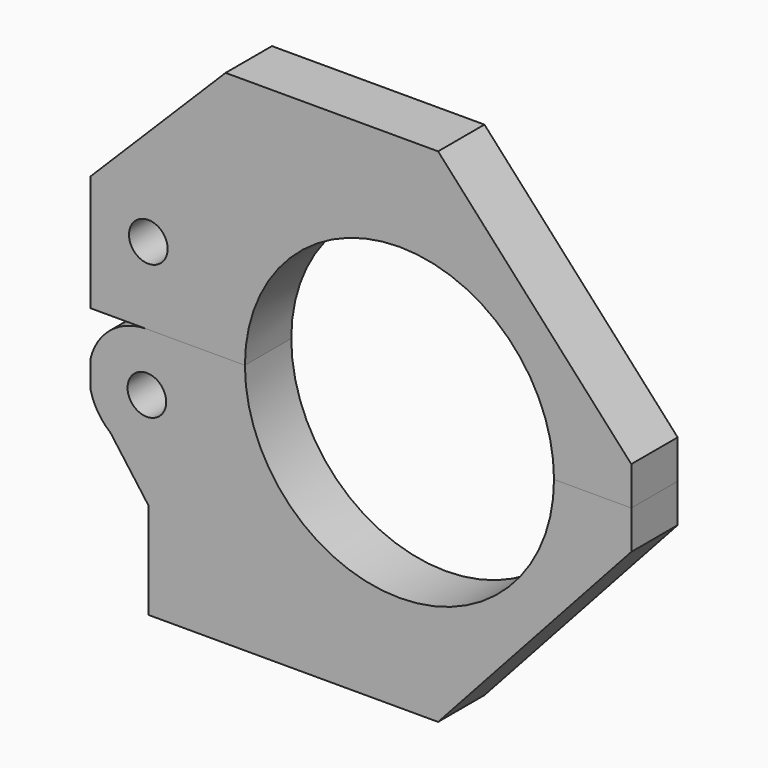
from build123d import *

# Parameters (mm, degrees)
F0_R     = 3.175
F1_DEPTH = 9.525
F2_DEPTH = 9.525


with BuildPart() as f1:
    # F0 (on Front) → F1 (new body)
    with BuildSketch(Plane.XZ):
        with BuildLine():
            Line((12.7, 41.275), (-22.225, 41.275))
            Line((-22.225, 41.275), (-44.45, 19.05))
            Line((-44.45, 19.05), (-44.45, 0))
            Line((-44.45, 0), (-35.162684, 0))
            Line((-35.162684, 0), (-19.05, 0))
            ThreePointArc((-19.05, 0), (6.35, 25.4), (31.75, 0))
            Line((31.75, 0), (44.45, 0))
            Line((44.45, 0), (44.45, 6.35))
            Line((44.45, 6.35), (12.7, 41.275))
        make_face()
        with Locations((-34.925, 12.7)):
            Circle(F0_R, mode=Mode.SUBTRACT)
    extrude(amount=F1_DEPTH)


with BuildPart() as f2:
    # F0 (on Front) → F2 (new body)
    with BuildSketch(Plane.XZ):
        with BuildLine():
            Line((44.45, -6.35), (44.45, 0))
            Line((44.45, 0), (31.75, 0))
            ThreePointArc((31.75, 0), (6.35, -25.4), (-19.05, 0))
            Line((-19.05, 0), (-35.162684, 0))
            ThreePointArc((-35.162684, 0), (-41.103408, -2.079638), (-44.45, -7.410437))
            Line((-44.45, -7.410437), (-44.45, -11.639563))
            ThreePointArc((-44.45, -11.639563), (-43.24872, -14.559048), (-41.159166, -16.925528))
            Line((-41.159166, -16.925528), (-34.925, -25.4))
            Line((-34.925, -25.4), (-34.925, -41.275))
            Line((-34.925, -41.275), (12.7, -41.275))
            Line((12.7, -41.275), (44.45, -6.35))
        make_face()
        with Locations((-35.162684, -9.525)):
            Circle(F0_R, mode=Mode.SUBTRACT)
    extrude(amount=F2_DEPTH)


solid = Compound([f1.part, f2.part])
